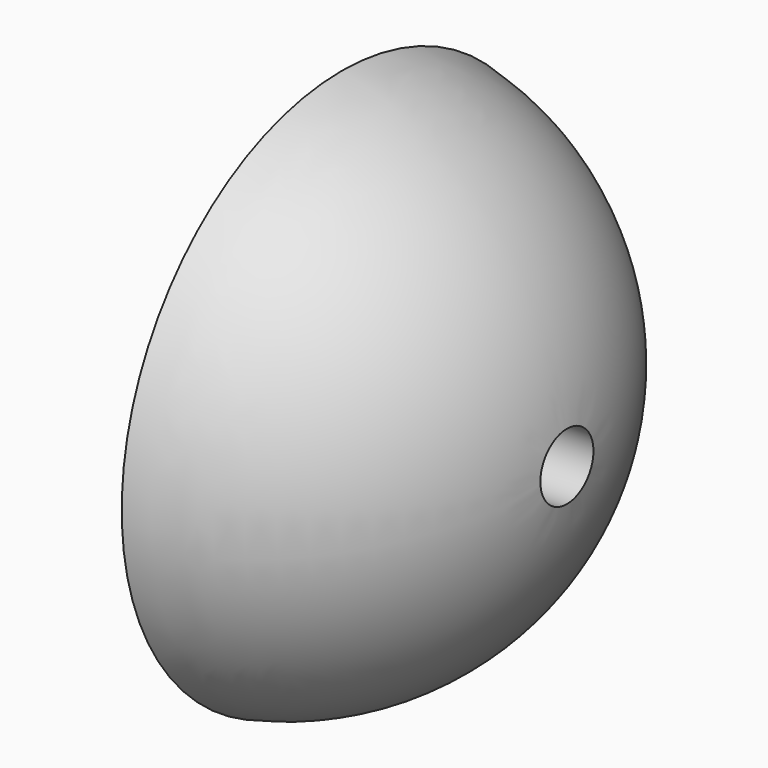
from build123d import *

# Parameters (mm, degrees)
F3_D     = 7
F3_DEPTH = 5
F3_TIP   = 2.1030121666


with BuildPart() as f1:
    # F0 (on Front) → F1 (revolve)
    with BuildSketch(Plane.XZ):
        with BuildLine():
            Line((-7, 0), (0, 0))
            ThreePointArc((0, 0), (-6.8814279762, 18.7407850101), (-24, 29.0133487433))
            Line((-24, 29.0133487433), (-24, 27.101010782))
            ThreePointArc((-24, 27.101010782), (-11.5860917966, 16.0056329873), (-7, 0))
        make_face()
    revolve(axis=Axis((-3.5, 0, 0), (1, 0, 0)))

    # F3
    with Locations(Plane.YZ):
        with Locations((0, 0)):
            Hole(F3_D / 2, depth=F3_DEPTH)
            with Locations((0, 0, -(F3_DEPTH + F3_TIP / 2))):  # 118° drill point
                Cone(0, F3_D / 2, F3_TIP, mode=Mode.SUBTRACT)


solid = f1.part
